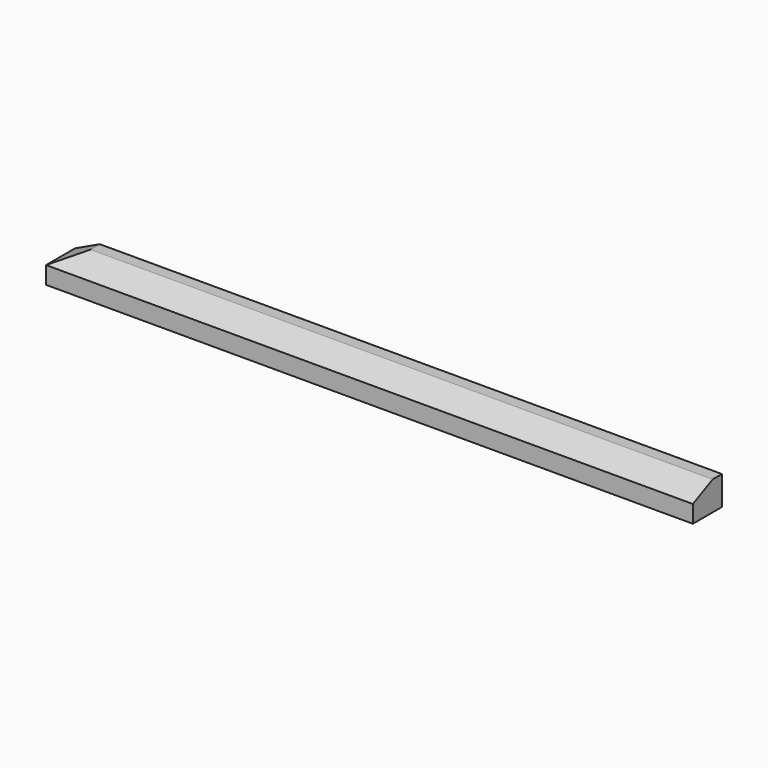
from build123d import *

# Parameters (mm, degrees)
F0_W     = 2225
F0_H     = 100
F1_DEPTH = 125
F2_SIZE2 = 40
F2_SIZE  = 85


with BuildPart() as f1:
    # F0 (on Front) → F1 (new body)
    with BuildSketch(Plane.XZ):
        with Locations((-1112.5, -50)):
            Rectangle(F0_W, F0_H)
    extrude(amount=F1_DEPTH)

    # F2
    f2_edges = [f1.edges().sort_by_distance(p)[0] for p in [
        (-1112.5, -125, 0),
        (-2225, -62.5, 0),
    ]]
    f2_side = f1.faces().sort_by_distance((-1112.5, -62.5, 0))[0]
    chamfer(f2_edges, length=F2_SIZE, length2=F2_SIZE2, reference=f2_side)


solid = f1.part
